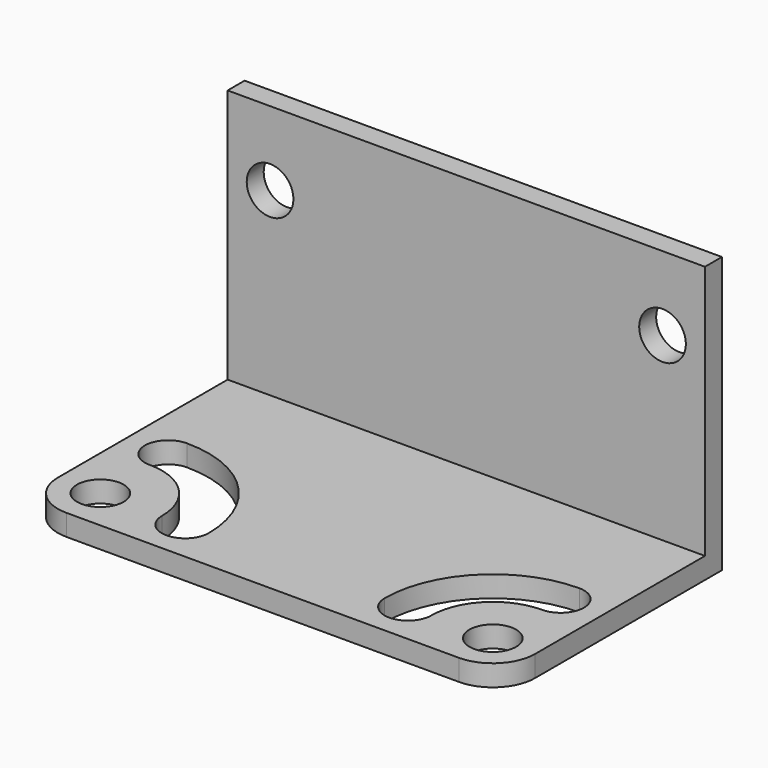
from build123d import *

# Parameters (mm, degrees)
F0_W     = 45
F0_H     = 26
F1_DEPTH = 26
F2_W     = 24
F2_H     = 24
F3_DEPTH = 45.001
F5_D     = 4.4
F7_D     = 4.4
F9_DEPTH = 2.001
F10_R    = 4


with BuildPart() as f1:
    # F0 (on Top) → F1 (new body)
    with BuildSketch(Plane.XY):
        Rectangle(F0_W, F0_H)
    extrude(amount=F1_DEPTH)

    # F2 (on face) → F3 (cut, through all)
    with BuildSketch(Plane.YZ.offset(22.5)):
        with Locations((-1, 14)):
            Rectangle(F2_W, F2_H)
    extrude(amount=-F3_DEPTH, mode=Mode.SUBTRACT)

    # F5 (through all)
    with Locations(Plane.XY.offset(2)):
        with Locations((-18.5, -9), (18.5, -9)):
            Hole(F5_D / 2)

    # F7 (through all)
    with Locations(Plane.XZ.offset(-11)):
        with Locations((-18.5, 19), (18.5, 19)):
            Hole(F7_D / 2)

    # F8 (on face) → F9 (cut, through all)
    with BuildSketch(Plane.XY.offset(2)):
        with BuildLine():
            ThreePointArc((-12.7, -9), (-10.5, -11.2), (-8.3, -9))
            ThreePointArc((-8.3, -9), (-11.2875108319, -1.7875108319), (-18.5, 1.2))
            ThreePointArc((-18.5, 1.2), (-20.7, -1), (-18.5, -3.2))
            ThreePointArc((-18.5, -3.2), (-14.3987806691, -4.8987806691), (-12.7, -9))
        make_face()
        with BuildLine():
            ThreePointArc((18.5, 1.2), (11.2875108319, -1.7875108319), (8.3, -9))
            ThreePointArc((8.3, -9), (10.5, -11.2), (12.7, -9))
            ThreePointArc((12.7, -9), (14.3987806691, -4.8987806691), (18.5, -3.2))
            ThreePointArc((18.5, -3.2), (20.7, -1), (18.5, 1.2))
        make_face()
    extrude(amount=-F9_DEPTH, mode=Mode.SUBTRACT)

    # F10
    f10_edges = [f1.edges().sort_by_distance(p)[0] for p in [
        (-22.5, -13, 1),
        (22.5, -13, 1),
    ]]
    fillet(f10_edges, radius=F10_R)


solid = f1.part
